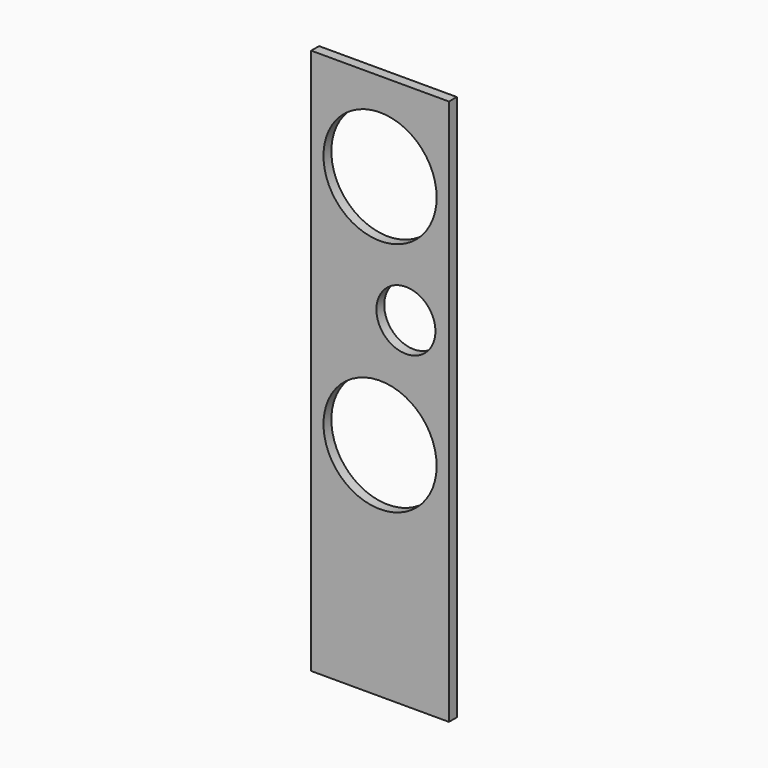
from build123d import *

# Parameters (mm, degrees)
F0_W     = 177.8
F0_H     = 704.85
F0_R     = 73.025
F0_R_2   = 38.1
F1_DEPTH = 12.7


with BuildPart() as f1:
    # F0 (on Front) → F1 (new body)
    with BuildSketch(Plane.XZ):
        Rectangle(F0_W, F0_H)
        with Locations((0, -66.675)):
            Circle(F0_R, mode=Mode.SUBTRACT)
        with Locations((33.3375, 85.725)):
            Circle(F0_R_2, mode=Mode.SUBTRACT)
        with Locations((0, 238.125)):
            Circle(F0_R, mode=Mode.SUBTRACT)
    extrude(amount=F1_DEPTH)


solid = f1.part
